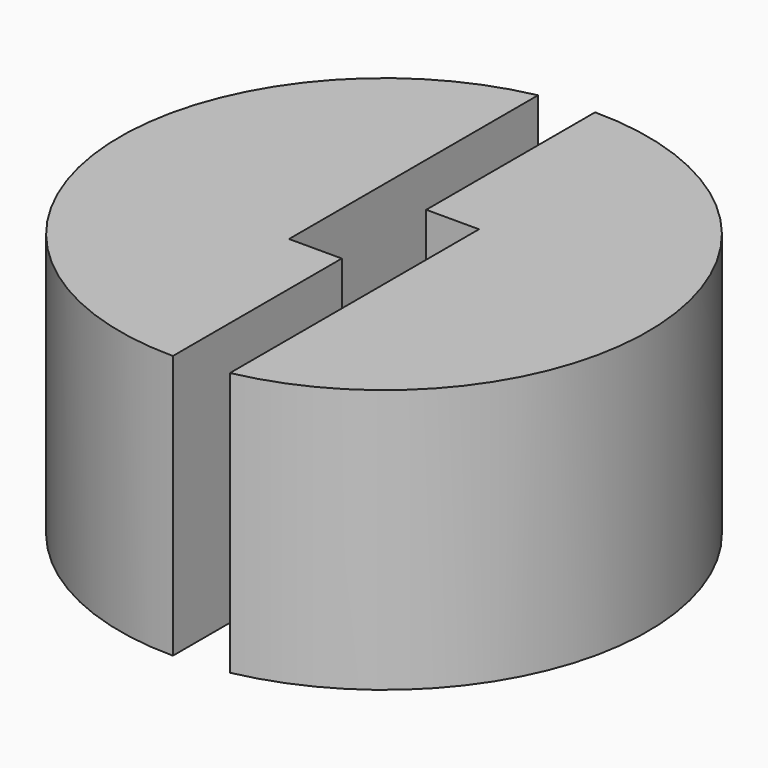
from build123d import *

# Parameters (mm, degrees)
F1_DEPTH = 25


with BuildPart() as f1:
    # F0 (on Top) → F1 (new body)
    with BuildSketch(Plane.XY):
        with BuildLine():
            Line((-5, 5), (-5, 24.494897))
            ThreePointArc((-5, 24.494897), (-24.873404, -2.512724), (0, -25))
            Line((0, -25), (0, -5))
            Line((0, -5), (-5, -5))
            Line((-5, -5), (-5, 0))
            Line((-5, 0), (-5, 5))
        make_face()
        with BuildLine():
            Line((0, 25), (0, 5))
            Line((0, 5), (5, 5))
            Line((5, 5), (5, 0))
            Line((5, 0), (5, -5))
            Line((5, -5), (5, -24.494897))
            ThreePointArc((5, -24.494897), (24.873404, 2.512724), (0, 25))
        make_face()
    extrude(amount=F1_DEPTH)


solid = f1.part
